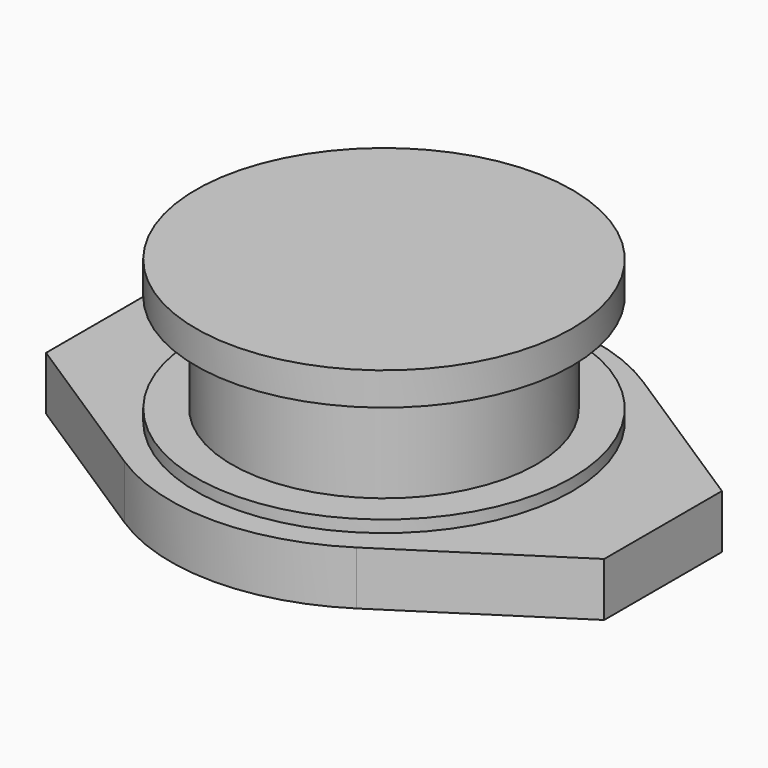
from build123d import *

# Parameters (mm, degrees)
PAD_DEPTH    = 1.8
SKETCH001_R  = 6.3
PAD001_DEPTH = 0.4
SKETCH002_R  = 5.1
PAD002_DEPTH = 3.3
SKETCH003_R  = 6.3
PAD003_DEPTH = 1.1


with BuildPart() as part:
    # Sketch → Pad (new body)
    with BuildSketch(Plane.XY):
        with BuildLine():
            ThreePointArc((3.885224, 6.002294), (0, 7.15), (-3.885224, 6.002294))
            Line((-9.35, 2.465), (-3.885224, 6.002294))
            Line((-9.35, -2.465), (-9.35, 2.465))
            Line((-3.885224, -6.002294), (-9.35, -2.465))
            ThreePointArc((-3.885224, -6.002294), (0, -7.15), (3.885224, -6.002294))
            Line((9.35, -2.465), (3.885224, -6.002294))
            Line((9.35, 2.465), (9.35, -2.465))
            Line((3.885224, 6.002294), (9.35, 2.465))
        make_face()
    extrude(amount=PAD_DEPTH)

    # Sketch001 (on Face5 of Pad003) → Pad001 (join)
    with BuildSketch(Plane.XY.offset(1.8)):
        Circle(SKETCH001_R)
    extrude(amount=PAD001_DEPTH)

    # Sketch002 (on Face12 of Pad001) → Pad002 (join)
    with BuildSketch(Plane.XY.offset(2.2)):
        Circle(SKETCH002_R)
    extrude(amount=PAD002_DEPTH)

    # Sketch003 (on Face14 of Pad002) → Pad003 (join)
    with BuildSketch(Plane.XY.offset(5.5)):
        Circle(SKETCH003_R)
    extrude(amount=PAD003_DEPTH)


solid = part.part
